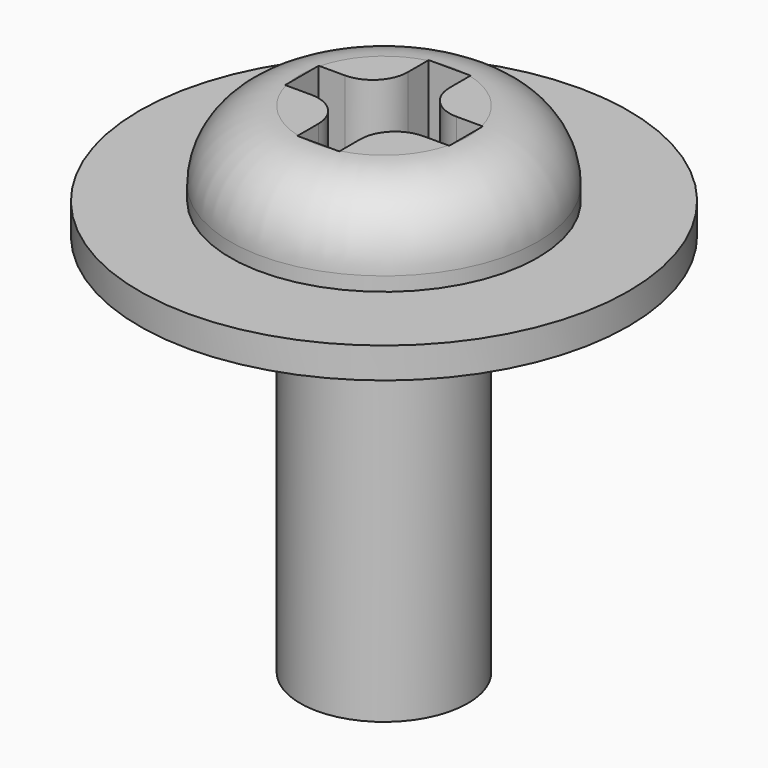
from build123d import *

# Parameters (mm, degrees)
SKETCH003_W  = 1.2
SKETCH003_H  = 5.5
SKETCH_R     = 3.5
PAD_DEPTH    = 0.44
SKETCH001_R  = 2.2
PAD001_DEPTH = 1.2
FILLET_R     = 1
POCKET_DEPTH = 1
CHAMFER_SIZE = 0.3


with BuildPart() as screw_body:
    # Sketch003 → Revolution (revolve)
    with BuildSketch(Plane.XZ):
        with Locations((0.6, -2.75)):
            Rectangle(SKETCH003_W, SKETCH003_H)
    revolve(axis=Axis((0, 0, 0), (0, 0, 1)))


with BuildPart() as chamfer_body:
    # Sketch → Pad (new body)
    with BuildSketch(Plane.XY):
        Circle(SKETCH_R)
    extrude(amount=PAD_DEPTH)

    # Sketch001 → Pad001 (new body)
    with BuildSketch(Plane.XY.offset(0.44)):
        Circle(SKETCH001_R)
    extrude(amount=PAD001_DEPTH)

    # Fillet
    fillet_edges = [chamfer_body.edges().sort_by_distance(p)[0] for p in [
        (-2.2, 0, 1.64),
    ]]
    fillet(fillet_edges, radius=FILLET_R)

    # Sketch002 → Pocket (cut)
    with BuildSketch(Plane.XY.offset(1.64)):
        with BuildLine():
            Line((-0.3, 1.175), (0.3, 1.175))
            Line((0.3, 1.175), (0.3, 0.8))
            ThreePointArc((0.3, 0.8), (0.446447, 0.446447), (0.8, 0.3))
            Line((0.8, 0.3), (1.175, 0.3))
            Line((1.175, 0.3), (1.175, -0.3))
            Line((1.175, -0.3), (0.8, -0.3))
            ThreePointArc((0.8, -0.3), (0.446447, -0.446447), (0.3, -0.8))
            Line((0.3, -0.8), (0.3, -1.175))
            Line((0.3, -1.175), (-0.3, -1.175))
            Line((-0.3, -1.175), (-0.3, -0.8))
            ThreePointArc((-0.3, -0.8), (-0.446447, -0.446447), (-0.8, -0.3))
            Line((-0.8, -0.3), (-1.175, -0.3))
            Line((-1.175, -0.3), (-1.175, 0.3))
            Line((-1.175, 0.3), (-0.8, 0.3))
            ThreePointArc((-0.8, 0.3), (-0.446447, 0.446447), (-0.3, 0.8))
            Line((-0.3, 0.8), (-0.3, 1.175))
        make_face()
    extrude(amount=-POCKET_DEPTH, mode=Mode.SUBTRACT)

    # Fusion: union screw-body
    add(screw_body.part)

    # Chamfer
    chamfer_edges = [chamfer_body.edges().sort_by_distance(p)[0] for p in [
        (-1.2, 0, 0),
    ]]
    chamfer(chamfer_edges, length=CHAMFER_SIZE)


solid = chamfer_body.part
